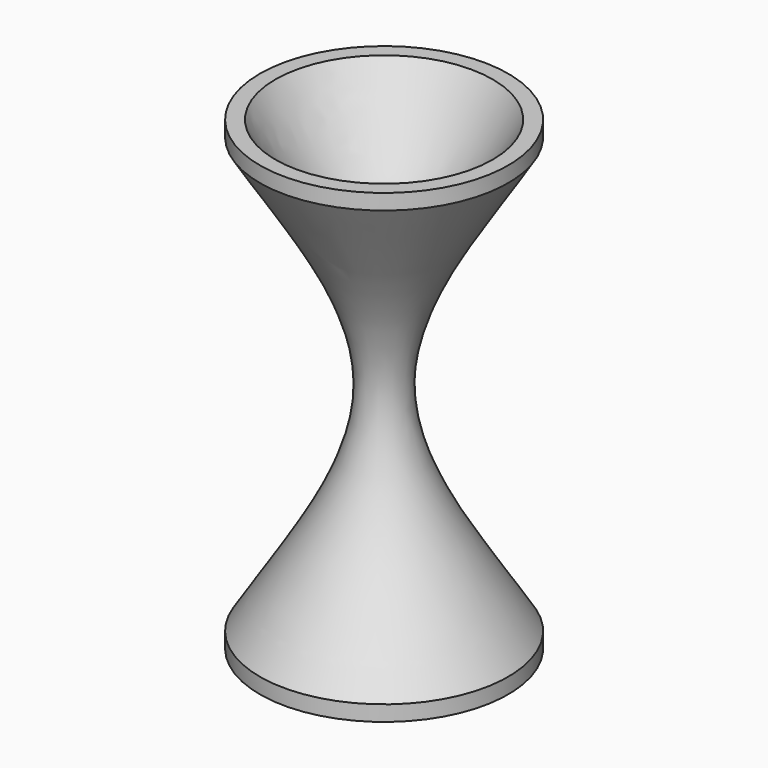
from build123d import *


with BuildPart() as f1:
    # F0 (on Front) → F1 (revolve)
    with BuildSketch(Plane.XZ):
        with BuildLine():
            Line((-40, 75), (-40, 70))
            add(Edge.make_bspline(
                [(-40, 70), (-25.518989, 46.666667), (10.169417, 0), (-25.518989, -46.666667), (-40, -70)],
                knots=[0, 0, 0, 0, 77.103304, 154.206608, 154.206608, 154.206608, 154.206608], degree=3))
            Line((-40, -70), (-40, -75))
            Line((-40, -75), (-35, -75))
            add(Edge.make_bspline(
                [(-35, 75), (-20.526512, 50), (15.187534, 0), (-20.526512, -50), (-35, -75)],
                knots=[0, 0, 0, 0, 81.671672, 163.343343, 163.343343, 163.343343, 163.343343], degree=3))
            Line((-35, 75), (-40, 75))
        make_face()
    revolve(axis=Axis((0, 0, 35), (0, 0, 1)))


solid = f1.part
